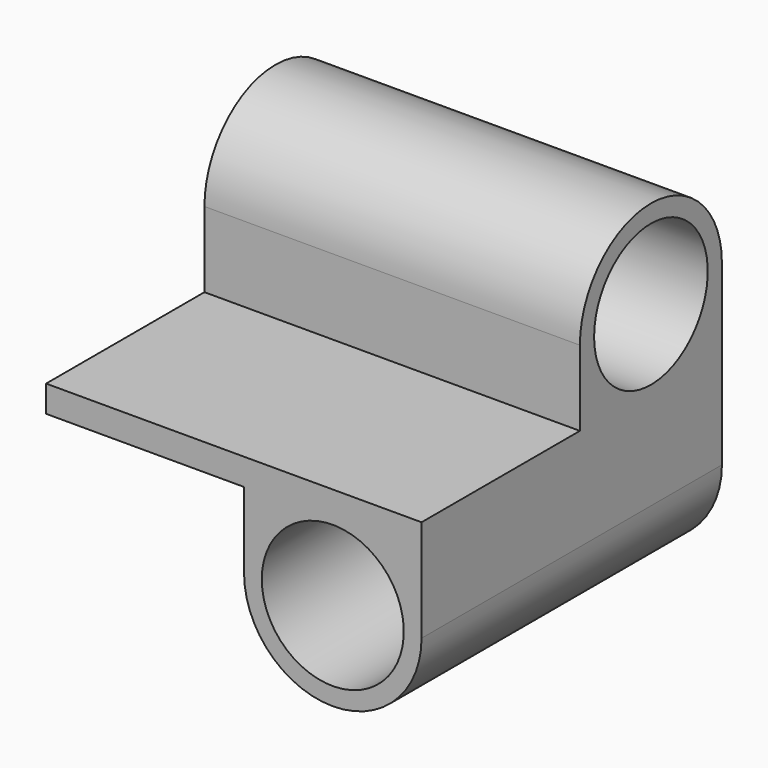
from build123d import *

# Parameters (mm, degrees)
F0_W     = 22.3
F0_H     = 1.5
F1_DEPTH = 42.3
F2_W     = 22.3
F2_H     = 1.5
F3_DEPTH = 42.3


with BuildPart() as f1:
    # F0 (on Front) → F1 (new body)
    with BuildSketch(Plane.XZ):
        with BuildLine():
            Line((-18, -10), (-20, -10))
            ThreePointArc((-20, -10), (-10, -20), (0, -10))
            Line((0, -10), (-2, -10))
            ThreePointArc((-2, -10), (-10, -18), (-18, -10))
        make_face()
        with BuildLine():
            Line((-20, -1.5), (-20, -10))
            ThreePointArc((-20, -10), (-17.0710678119, -2.9289321881), (-10, 0))
            Line((-10, 0), (-20, 0))
            Line((-20, 0), (-20, -1.5))
        make_face()
        with BuildLine():
            ThreePointArc((-10, 0), (-17.0710678119, -2.9289321881), (-20, -10))
            Line((-20, -10), (-18, -10))
            ThreePointArc((-18, -10), (-10, -2), (-2, -10))
            Line((-2, -10), (0, -10))
            ThreePointArc((0, -10), (-2.9289321881, -2.9289321881), (-10, 0))
        make_face()
        with BuildLine():
            ThreePointArc((-10, 0), (-2.9289321881, -2.9289321881), (0, -10))
            Line((0, -10), (0, 0))
            Line((0, 0), (-10, 0))
        make_face()
        with Locations((-31.15, -0.75)):
            Rectangle(F0_W, F0_H)
    extrude(amount=F1_DEPTH)

    # F2 (on Right) → F3 (join)
    with BuildSketch(Plane.YZ):
        with BuildLine():
            Line((0, 10), (-2, 10))
            ThreePointArc((-2, 10), (-10, 2), (-18, 10))
            Line((-18, 10), (-20, 10))
            ThreePointArc((-20, 10), (-17.0710678119, 2.9289321881), (-10, 0))
            ThreePointArc((-10, 0), (-2.9289321881, 2.9289321881), (0, 10))
        make_face()
        with BuildLine():
            ThreePointArc((-18, 10), (-10, 18), (-2, 10))
            Line((-2, 10), (0, 10))
            ThreePointArc((0, 10), (-10, 20), (-20, 10))
            Line((-20, 10), (-18, 10))
        make_face()
        with BuildLine():
            Line((0, 0), (0, 10))
            ThreePointArc((0, 10), (-2.9289321881, 2.9289321881), (-10, 0))
            Line((-10, 0), (0, 0))
        make_face()
        with BuildLine():
            ThreePointArc((-10, 0), (-17.0710678119, 2.9289321881), (-20, 10))
            Line((-20, 10), (-20, 1.5))
            Line((-20, 1.5), (-20, 0))
            Line((-20, 0), (-10, 0))
        make_face()
        with Locations((-31.15, 0.75)):
            Rectangle(F2_W, F2_H)
    extrude(amount=-F3_DEPTH)


solid = f1.part
